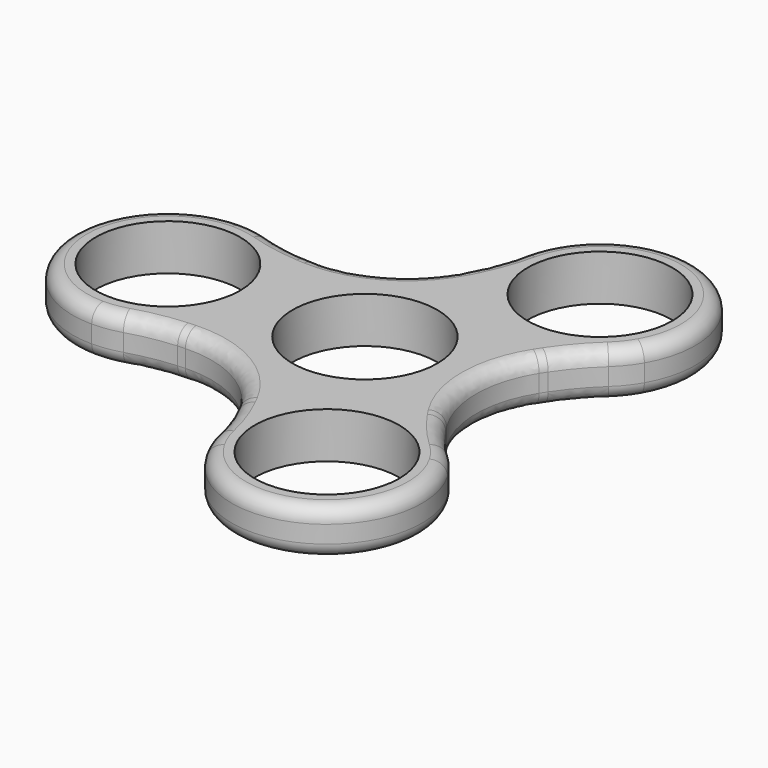
from build123d import *

# Parameters (mm, degrees)
F0_R     = 11
F1_DEPTH = 7
F2_COUNT = 3
F4_R     = 16.4079570647
F5_R     = 30.9108427565
F6_R     = 2.1727922061


with BuildPart() as f1:
    # F0 (on Top) → F1 (new body)
    with BuildSketch(Plane.XY):
        with BuildLine():
            ThreePointArc((-6.1697785126, 13.1218837484), (-12.2415642063, 7.7713644737), (-14.5, 0))
            ThreePointArc((-14.5, 0), (-12.2415642063, -7.7713644737), (-6.1697785126, -13.1218837484))
            ThreePointArc((-6.1697785126, -13.1218837484), (-3.0649815612, -13.7218158157), (0, -14.5))
            ThreePointArc((0, -14.5), (10.2530483272, -10.2530483272), (14.5, 0))
            ThreePointArc((14.5, 0), (10.2530483272, 10.2530483272), (0, 14.5))
            ThreePointArc((0, 14.5), (-3.0649815612, 13.7218158157), (-6.1697785126, 13.1218837484))
        make_face()
        with BuildLine():
            ThreePointArc((-11.025, 0), (0, 11.025), (11.025, 0))
            ThreePointArc((11.025, 0), (0, -11.025), (-11.025, 0))
        make_face(mode=Mode.SUBTRACT)
        with BuildLine():
            ThreePointArc((-6.1697785126, -13.1218837484), (-12.2415642063, -7.7713644737), (-14.5, 0))
            Line((-14.5, 0), (-15.5, 0))
            ThreePointArc((-15.5, 0), (-17.7584357937, -7.7713644737), (-23.8302214874, -13.1218837484))
            ThreePointArc((-23.8302214874, -13.1218837484), (-15, -12.4051030914), (-6.1697785126, -13.1218837484))
        make_face()
        with BuildLine():
            Line((-15.5, 0), (-14.5, 0))
            ThreePointArc((-14.5, 0), (-12.2415642063, 7.7713644737), (-6.1697785126, 13.1218837484))
            ThreePointArc((-6.1697785126, 13.1218837484), (-15, 12.4051030914), (-23.8302214874, 13.1218837484))
            ThreePointArc((-23.8302214874, 13.1218837484), (-17.7584357937, 7.7713644737), (-15.5, 0))
        make_face()
        with BuildLine():
            ThreePointArc((-23.8302214874, -13.1218837484), (-17.7584357937, -7.7713644737), (-15.5, 0))
            ThreePointArc((-15.5, 0), (-17.7584357937, 7.7713644737), (-23.8302214874, 13.1218837484))
            ThreePointArc((-23.8302214874, 13.1218837484), (-26.9350184388, 13.7218158157), (-30, 14.5))
            ThreePointArc((-30, 14.5), (-44.5, 0), (-30, -14.5))
            ThreePointArc((-30, -14.5), (-26.9350184388, -13.7218158157), (-23.8302214874, -13.1218837484))
        make_face()
        with Locations((-30, 0)):
            Circle(F0_R, mode=Mode.SUBTRACT)
        with BuildLine():
            ThreePointArc((0, 14.5), (-3.1609085441, 14.151277581), (-6.1697785126, 13.1218837484))
            ThreePointArc((-6.1697785126, 13.1218837484), (-3.0649815612, 13.7218158157), (0, 14.5))
        make_face()
        with BuildLine():
            ThreePointArc((0, -14.5), (-3.0649815612, -13.7218158157), (-6.1697785126, -13.1218837484))
            ThreePointArc((-6.1697785126, -13.1218837484), (-3.1609085441, -14.151277581), (0, -14.5))
        make_face()
        with BuildLine():
            ThreePointArc((-30, 14.5), (-26.9350184388, 13.7218158157), (-23.8302214874, 13.1218837484))
            ThreePointArc((-23.8302214874, 13.1218837484), (-26.8390914559, 14.151277581), (-30, 14.5))
        make_face()
        with BuildLine():
            ThreePointArc((-30, -14.5), (-26.8390914559, -14.151277581), (-23.8302214874, -13.1218837484))
            ThreePointArc((-23.8302214874, -13.1218837484), (-26.9350184388, -13.7218158157), (-30, -14.5))
        make_face()
    extrude(amount=F1_DEPTH)


with BuildPart() as f2_1:
    # F2: instance of F1
    add(f1.part.rotate(Axis((0, 0, 0), (0, 0, -1)), 1 * 360 / F2_COUNT))


with BuildPart() as f2_2:
    # F2: instance of F1
    add(f1.part.rotate(Axis((0, 0, 0), (0, 0, -1)), 2 * 360 / F2_COUNT))


with BuildPart() as f1_1:
    add(f1.part)

    # F3: union F2_1, F2_2
    add(f2_1.part)
    add(f2_2.part)

    # F4
    f4_edges = [f1_1.edges().sort_by_distance(p)[0] for p in [
        (14.92608, 0, 3.5),
        (-7.46304, 12.926365, 3.5),
        (-7.46304, -12.926365, 3.5),
    ]]
    fillet(f4_edges, radius=F4_R)

    # F5
    f5_edges = [f1_1.edges().sort_by_distance(p)[0] for p in [
        (-23.830221, 13.121884, 3.5),
        (0.551226, 27.198519, 3.5),
        (23.278995, 14.076635, 3.5),
        (23.278995, -14.076635, 3.5),
        (-23.830221, -13.121884, 3.5),
        (0.551226, -27.198519, 3.5),
    ]]
    fillet(f5_edges, radius=F5_R)

    # F6
    f6_edges = [f1_1.edges().sort_by_distance(p)[0] for p in [
        (22.25, -38.53813, 7),
        (-8.451903, -14.639126, 0),
        (-1.846027, -21.769722, 0),
    ]]
    fillet(f6_edges, radius=F6_R)


solid = f1_1.part
